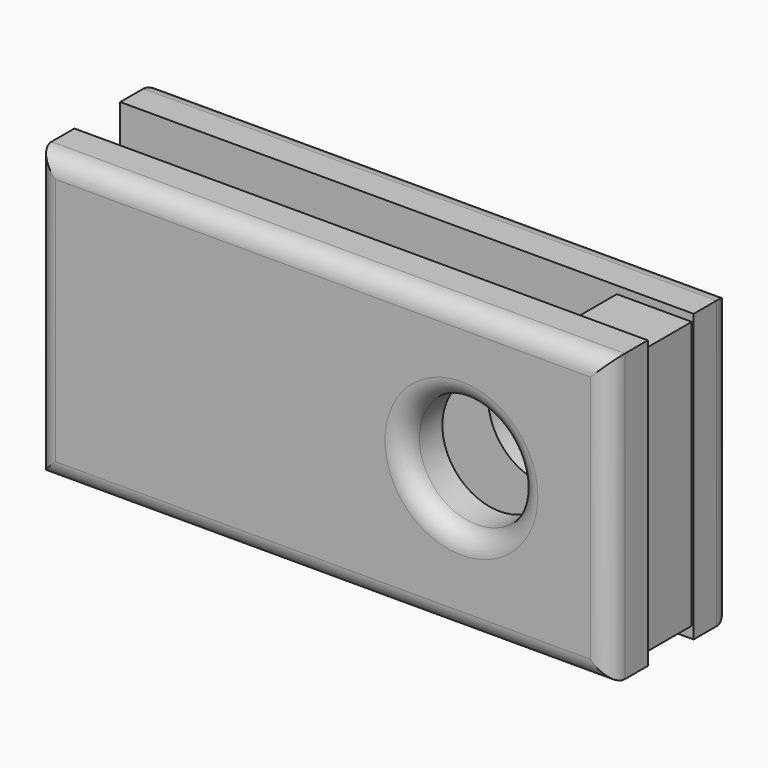
from build123d import *

# Parameters (mm, degrees)
F0_W     = 30
F0_H     = 15
F1_DEPTH = 2.5
F2_R     = 3
F3_DEPTH = 25
F4_R     = 1
F7_W     = 3.918399103
F7_H     = 3.3645480871
F8_DEPTH = 7


with BuildPart() as f1:
    # F0 (on Front) → F1 (new body)
    with BuildSketch(Plane.XZ):
        with Locations((-1.4792330191, -0.0996369123)):
            Rectangle(F0_W, F0_H)
    extrude(amount=F1_DEPTH)

    # F2 (on Front) → F3 (cut)
    with BuildSketch(Plane.XZ):
        with Locations((5.7725361548, 0)):
            Circle(F2_R)
    extrude(amount=F3_DEPTH, mode=Mode.SUBTRACT)

    # F4
    f4_edges = [f1.edges().sort_by_distance(p)[0] for p in [
        (13.520767, -2.5, -0.099637),
        (-1.479233, -2.5, -7.599637),
        (-1.479233, -2.5, 7.400363),
        (-16.479233, -2.5, -0.099637),
        (2.772536, -2.5, 0),
    ]]
    fillet(f4_edges, radius=F4_R)


with BuildPart() as f5_1:
    # F5: instance of F1
    add(f1.part.mirror(Plane.XZ))


with BuildPart() as f1_1:
    # F6: moved
    add(f1.part.moved(Location((0, -3, 0))))


with BuildPart() as f8:
    # F7 (on Top) → F8 (new body, symmetric)
    with BuildSketch(Plane.XY):
        with Locations((11.4620425738, -1.6822740436)):
            Rectangle(F7_W, F7_H)
    extrude(amount=F8_DEPTH, both=True)


solid = Compound([f5_1.part, f1_1.part, f8.part])
